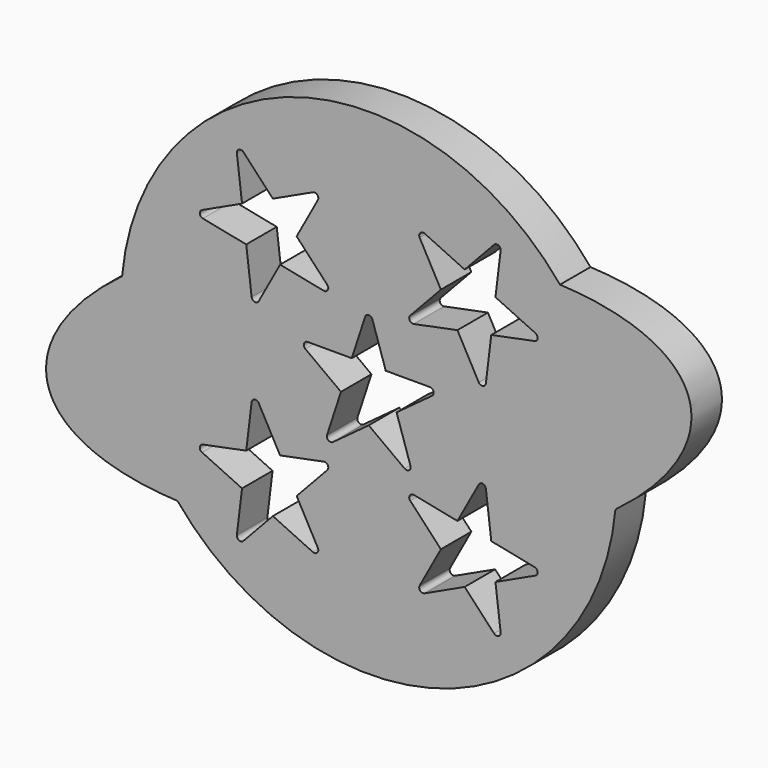
from build123d import *

# Parameters (mm, degrees)
F1_DEPTH = 10
F2_R     = 1


with BuildPart() as f1:
    # F0 (on Front) → F1 (new body)
    with BuildSketch(Plane.XZ):
        with BuildLine():
            add(Edge.make_bspline(
                [(-64.7320359031, 5.8960603655), (-123.067537089, -37.923051477), (-50.1862094657, -41.3079215098)],
                knots=[2.3230612235, 2.3230612235, 2.3230612235, 3.9601240836, 3.9601240836, 3.9601240836], degree=2, weights=[1, 0.68329421, 1]))
            ThreePointArc((-50.1862094657, -41.3079215098), (19.1414535528, -62.1176686289), (64.7320359031, -5.8960603655))
            add(Edge.make_bspline(
                [(64.7320359031, -5.8960603655), (123.067537089, 37.923051477), (50.1862094657, 41.3079215098)],
                knots=[5.4646538771, 5.4646538771, 5.4646538771, 7.1017167372, 7.1017167372, 7.1017167372], degree=2, weights=[1, 0.68329421, 1]))
            ThreePointArc((50.1862094657, 41.3079215098), (-19.1414535528, 62.1176686289), (-64.7320359031, 5.8960603655))
        make_face()
        Polygon((-32.1517660584, -23.8230923945), (-30.3628287151, -9.0500386362), (-23.268740969, -22.0387625849), (-8.7588094598, -19.1241582619), (-18.9257184403, -29.9904996859), (-11.9027429034, -42.8490227002), (-25.1687248766, -36.6629937131), (-34.9759067352, -47.1448605899), (-33.2502658453, -32.8945092697), (-46.5162478185, -26.7084802827), align=None, mode=Mode.SUBTRACT)
        Polygon((32.1517660584, -23.8230923945), (46.5162478185, -26.7084802827), (33.2502658453, -32.8945092697), (34.9759067352, -47.1448605899), (25.1687248766, -36.6629937131), (11.9027429034, -42.8490227002), (18.9257184403, -29.9904996859), (8.7588094598, -19.1241582619), (23.268740969, -22.0387625849), (30.3628287151, -9.0500386362), align=None, mode=Mode.SUBTRACT)
        Polygon((-23.268740969, 22.0387625849), (-30.3628287151, 9.0500386362), (-32.1517660584, 23.8230923945), (-46.5162478185, 26.7084802827), (-33.2502658453, 32.8945092697), (-34.9759067352, 47.1448605899), (-25.1687248766, 36.6629937131), (-11.9027429034, 42.8490227002), (-18.9257184403, 29.9904996859), (-8.7588094598, 19.1241582619), align=None, mode=Mode.SUBTRACT)
        Polygon((0, -7.5166247813), (-11.9186989036, -16.2903154078), (-7.2966644485, -2.1453441579), (-19.0958885106, 6.540397666), (-4.4584969281, 6.540397666), (0, 20.1848893888), (4.4584969281, 6.540397666), (19.0958885106, 6.540397666), (7.2966644485, -2.1453441579), (11.9186989036, -16.2903154078), align=None, mode=Mode.SUBTRACT)
        Polygon((25.1687248766, 36.6629937131), (34.9759067352, 47.1448605899), (33.2502658453, 32.8945092697), (46.5162478185, 26.7084802827), (32.1517660584, 23.8230923945), (30.3628287151, 9.0500386362), (23.268740969, 22.0387625849), (8.7588094598, 19.1241582619), (18.9257184403, 29.9904996859), (11.9027429034, 42.8490227002), align=None, mode=Mode.SUBTRACT)
    extrude(amount=F1_DEPTH)

    # F2
    f2_edges = [f1.edges().sort_by_distance(p)[0] for p in [
        (-34.975907, -5, 47.144861),
        (-11.902743, -5, 42.849023),
        (-46.516248, -5, 26.70848),
        (-30.362829, -5, 9.050039),
        (-8.758809, -5, 19.124158),
        (46.516248, -5, 26.70848),
        (30.362829, -5, 9.050039),
        (8.758809, -5, 19.124158),
        (11.902743, -5, 42.849023),
        (34.975907, -5, 47.144861),
        (0, -5, 20.184889),
        (19.095889, -5, 6.540398),
        (-19.095889, -5, 6.540398),
        (11.918699, -5, -16.290315),
        (-11.918699, -5, -16.290315),
        (46.516248, -5, -26.70848),
        (30.362829, -5, -9.050039),
        (34.975907, -5, -47.144861),
        (8.758809, -5, -19.124158),
        (11.902743, -5, -42.849023),
        (-46.516248, -5, -26.70848),
        (-34.975907, -5, -47.144861),
        (-11.902743, -5, -42.849023),
        (-8.758809, -5, -19.124158),
        (-30.362829, -5, -9.050039),
    ]]
    fillet(f2_edges, radius=F2_R)


solid = f1.part
